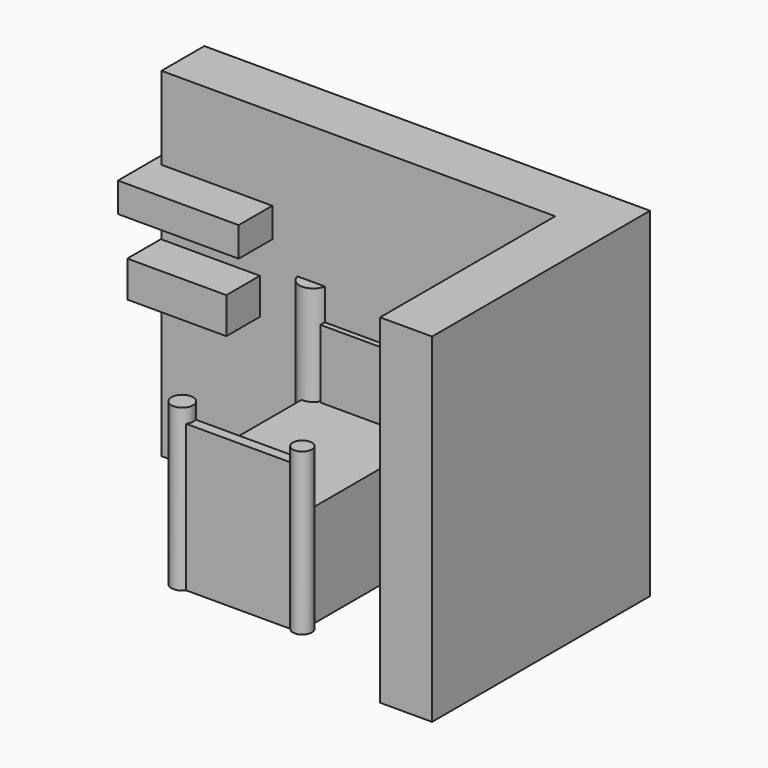
from build123d import *

# Parameters (mm, degrees)
F0_W           = 46.6360691935
F0_H           = 62.0842594653
F1_DEPTH       = 39.624
F2_R           = 5.4217561274
F3_DEPTH       = 78.232
F4_W           = 35.8134387061
F4_H           = 5.419138819
F5_DEPTH       = 66.04
F6_R           = 4.1907938762
F6_R_2         = 3.662891962
F7_DEPTH       = 62.23
F8_W           = 43.0485494435
F8_H           = 3.9290338755
F9_DEPTH       = 56.642
F10_W          = 152.111299336
F10_H          = 20.6753239036
F11_DEPTH      = 131.064
F12_W          = 46.6451868415
F12_H          = 11.4172399044
F12_W_2        = 38.2729917765
F12_H_2        = 13.9544047415
F13_DEPTH      = 15.24
F13_DEPTH_BACK = 8.382
F15_START      = 69.088
F14_W          = 44.2002508789
F14_H          = 35.4276895523
F15_DEPTH      = 26.67
F16_R          = 2.4234735376
F16_R_2        = 3.2785849657
F16_W          = 24.6338192374
F16_H          = 19.3075984716
F17_DEPTH      = 10.414


with BuildPart() as f1:
    # F0 (on Top) → F1 (new body)
    with BuildSketch(Plane.XY):
        with Locations((4.6636080369, -22.7350806817)):
            Rectangle(F0_W, F0_H)
    extrude(amount=F1_DEPTH)

    # F2 (on Top) → F3 (join)
    with BuildSketch(Plane.XY):
        with Locations((-18.3629505336, 8.890000172)):
            Circle(F2_R)
        with Locations((27.3986905813, 8.5985241458)):
            Circle(F2_R)
    extrude(amount=F3_DEPTH)

    # F4 (on Top) → F5 (join)
    with BuildSketch(Plane.XY):
        with Locations((4.7485050745, 8.4054339677)):
            Rectangle(F4_W, F4_H)
    extrude(amount=F5_DEPTH)

    # F6 (on Top) → F7 (join)
    with BuildSketch(Plane.XY):
        with Locations((-19.0614461899, -53.5666793585)):
            Circle(F6_R)
        with Locations((27.4915918708, -53.8066439331)):
            Circle(F6_R_2)
    extrude(amount=F7_DEPTH)

    # F8 (on Top) → F9 (join)
    with BuildSketch(Plane.XY):
        with Locations((5.0105676055, -54.0122948587)):
            Rectangle(F8_W, F8_H)
    extrude(amount=F9_DEPTH)

    # F10 (on Top) → F11 (join)
    with BuildSketch(Plane.XY):
        with Locations((-0.1476816833, 18.1647483259)):
            Rectangle(F10_W, F10_H)
        Polygon((95.9843993187, 28.5024102777), (75.9079679847, 28.5024102777), (75.9079679847, 7.8270863742), (75.9079679847, -76.7579004169), (95.9843993187, -76.7579004169), align=None)
    extrude(amount=F11_DEPTH)

    # F12 (on Front) → F13 (join, two sides)
    with BuildSketch(Plane.XZ) as f13_sk:
        with Locations((-56.7296259105, 93.3771133423)):
            Rectangle(F12_W, F12_H)
        with Locations((-57.3276355863, 66.7368900031)):
            Rectangle(F12_W_2, F12_H_2)
    extrude(amount=-F13_DEPTH)
    extrude(f13_sk.sketch, amount=F13_DEPTH_BACK)

    # F14 (on Right) → F15 (join)
    with BuildSketch(Plane.YZ.offset(F15_START)):
        with Locations((-38.0183747038, 85.803322494)):
            Rectangle(F14_W, F14_H)
    extrude(amount=F15_DEPTH)

    # F16 (on face) → F17 (join)
    with BuildSketch(Plane(origin=(75.9079679847, 0, 0), x_dir=(0, -1, 0), z_dir=(-1, 0, 0))):
        with Locations((55.1554076374, 96.6290086508)):
            Circle(F16_R)
        with Locations((54.1567392647, 83.9792117476)):
            Circle(F16_R_2)
        with Locations((34.5162590966, 85.6436565518)):
            Rectangle(F16_W, F16_H)
    extrude(amount=F17_DEPTH)


solid = f1.part
